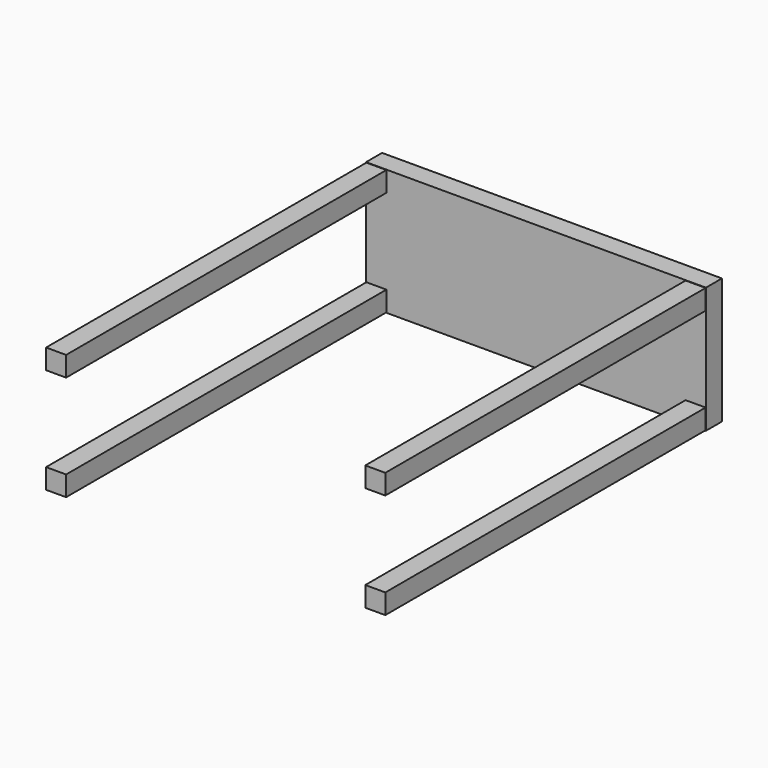
from build123d import *

# Parameters (mm, degrees)
F0_W     = 84.884792
F0_H     = 31.480454
F1_DEPTH = 5
F2_W     = 5
F2_H     = 5
F3_DEPTH = 105


with BuildPart() as f1:
    # F0 (on Front) → F1 (new body)
    with BuildSketch(Plane.XZ):
        Rectangle(F0_W, F0_H)
    extrude(amount=F1_DEPTH)

    # F2 (on Front) → F3 (join)
    with BuildSketch(Plane.XZ):
        with Locations((-39.864282, 13.145501)):
            Rectangle(F2_W, F2_H)
        with Locations((39.864282, 13.145501)):
            Rectangle(F2_W, F2_H)
        with Locations((39.864282, -13.145501)):
            Rectangle(F2_W, F2_H)
        with Locations((-39.864282, -13.145501)):
            Rectangle(F2_W, F2_H)
    extrude(amount=F3_DEPTH)


solid = f1.part
